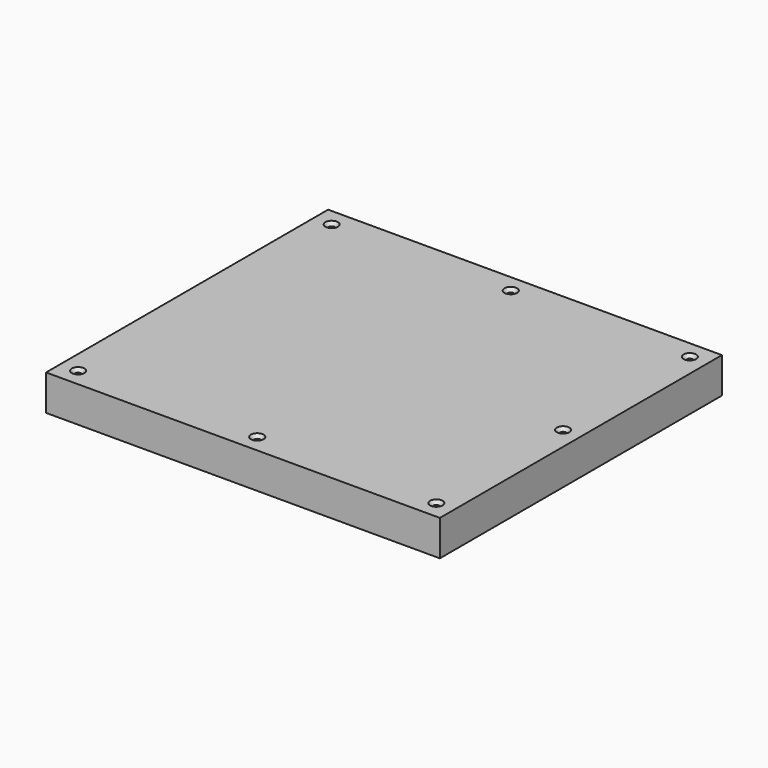
from build123d import *

# Parameters (mm, degrees)
F0_W           = 210
F0_H           = 188
F1_DEPTH       = 19
F3_D           = 3.3
F3_CSINK_D     = 6.72
F3_CSINK_ANGLE = 90


with BuildPart() as f1:
    # F0 (on Top) → F1 (new body)
    with BuildSketch(Plane.XY):
        Rectangle(F0_W, F0_H)
    extrude(amount=-F1_DEPTH)

    # F3 (through all)
    with Locations(Plane.XY):
        with Locations((-95.5, 84.5), (0, 84.5), (95.5, 84.5), (95.5, 0), (95.5, -84.5), (0, -84.5), (-95.5, -84.5)):
            CounterSinkHole(F3_D / 2, F3_CSINK_D / 2, counter_sink_angle=F3_CSINK_ANGLE)


solid = f1.part
